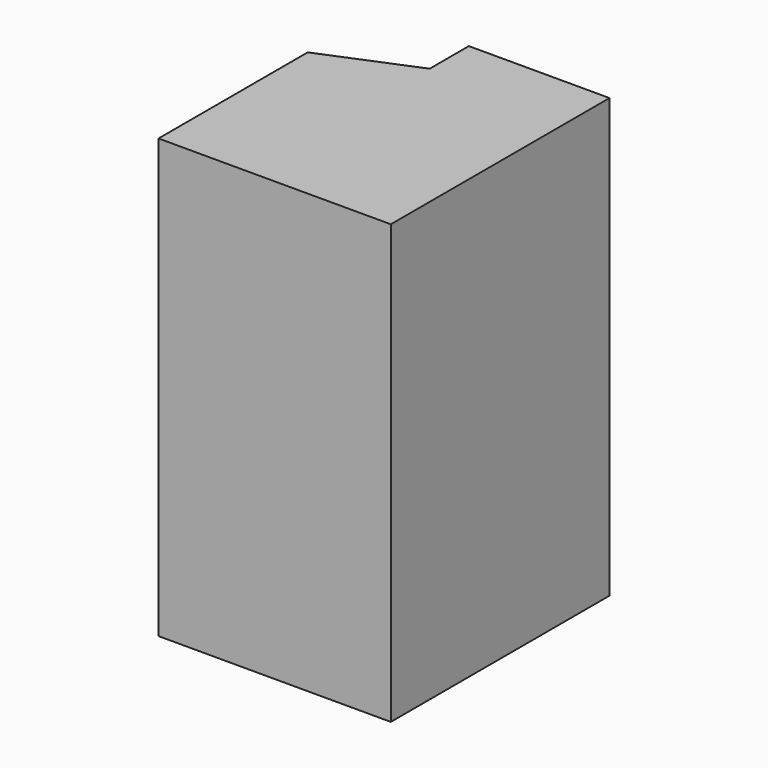
from build123d import *

# Parameters (mm, degrees)
F0_W     = 67.3418100923
F0_H     = 54.0566947311
F0_W_2   = 40.771568194
F0_H_2   = 14.2013281584
F1_DEPTH = 63.5


with BuildPart() as f1:
    # F0 (on Top) → F1 (new body, symmetric)
    with BuildSketch(Plane.XY):
        with Locations((-23.4780162573, 8.3604613319)):
            Rectangle(F0_W, F0_H)
        Polygon((-57.1489213035, 35.3888086975), (10.1928887889, 35.3888086975), (10.1928887889, 46.3833920658), (-30.5786794052, 46.3833920658), align=None)
        with Locations((-10.1928953081, 53.484056145)):
            Rectangle(F0_W_2, F0_H_2)
    extrude(amount=F1_DEPTH, both=True)


solid = f1.part
